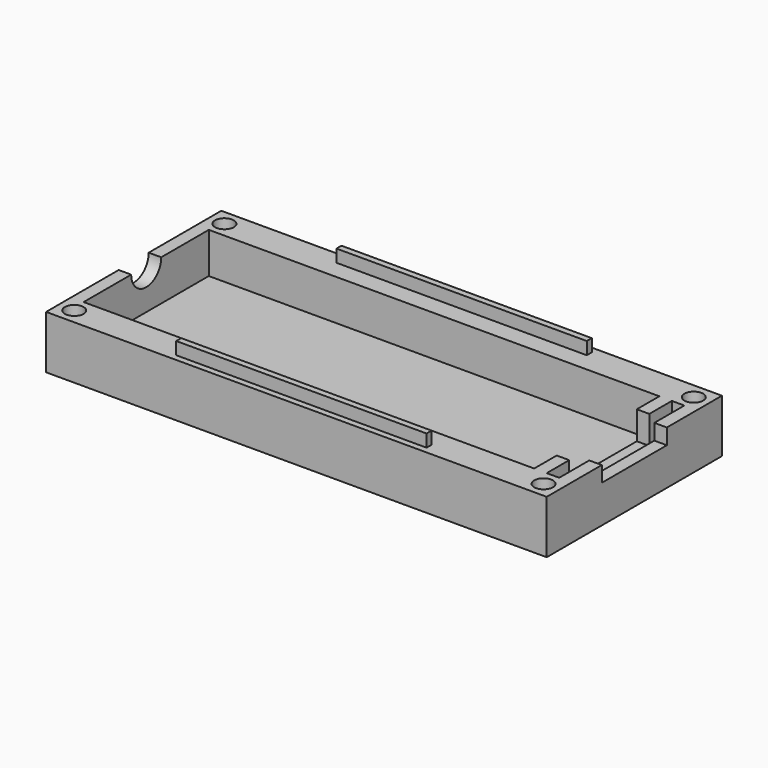
from build123d import *

# Parameters (mm, degrees)
CYLINDER004_R        = 1.5
CYLINDER004_DEPTH    = 10
CYLINDER003_R        = 1.5
CYLINDER003_DEPTH    = 10
CYLINDER002_R        = 1.5
CYLINDER002_DEPTH    = 10
CYLINDER001_R        = 1.5
CYLINDER001_DEPTH    = 10
BOX007_W             = 40
BOX007_H             = 1
BOX007_DEPTH         = 10.5
BOX006_W             = 40
BOX006_H             = 1
BOX006_DEPTH         = 10.5
BOX005_W             = 3
BOX005_H             = 25
BOX005_DEPTH         = 10
BOX004_W             = 2
BOX004_H             = 16
BOX004_DEPTH         = 9
BOX003_W             = 2
BOX003_H             = 13
BOX003_DEPTH         = 5
BOX002_W             = 2
BOX002_H             = 25
BOX002_DEPTH         = 9
BOX001_W             = 69
BOX001_H             = 25
BOX001_DEPTH         = 13
CYLINDER_R           = 3
CYLINDER_DEPTH       = 2
CYLINDER_PITCH_ANGLE = 90
BOX_W                = 80
BOX_H                = 35
BOX_DEPTH            = 8.5


with BuildPart() as cylinder004:
    # Cylinder004 → Cylinder004 (new body)
    with BuildSketch(Plane(origin=(2.5, 32.5, 0), x_dir=(1, 0, 0), z_dir=(0, 0, 1))):
        Circle(CYLINDER004_R)
    extrude(amount=CYLINDER004_DEPTH)


with BuildPart() as cylinder003:
    # Cylinder003 → Cylinder003 (new body)
    with BuildSketch(Plane(origin=(77.5, 32.5, 0), x_dir=(1, 0, 0), z_dir=(0, 0, 1))):
        Circle(CYLINDER003_R)
    extrude(amount=CYLINDER003_DEPTH)


with BuildPart() as cylinder002:
    # Cylinder002 → Cylinder002 (new body)
    with BuildSketch(Plane(origin=(77.5, 2.5, 0), x_dir=(1, 0, 0), z_dir=(0, 0, 1))):
        Circle(CYLINDER002_R)
    extrude(amount=CYLINDER002_DEPTH)


with BuildPart() as cylinder001:
    # Cylinder001 → Cylinder001 (new body)
    with BuildSketch(Plane(origin=(2.5, 2.5, 0), x_dir=(1, 0, 0), z_dir=(0, 0, 1))):
        Circle(CYLINDER001_R)
    extrude(amount=CYLINDER001_DEPTH)


with BuildPart() as box007:
    # Box007 → Box007 (new body)
    with BuildSketch(Plane(origin=(20, 1, 0), x_dir=(1, 0, 0), z_dir=(0, 0, 1))):
        with Locations((20, 0.5)):
            Rectangle(BOX007_W, BOX007_H)
    extrude(amount=BOX007_DEPTH)


with BuildPart() as box006:
    # Box006 → Box006 (new body)
    with BuildSketch(Plane(origin=(20, 33, 0), x_dir=(1, 0, 0), z_dir=(0, 0, 1))):
        with Locations((20, 0.5)):
            Rectangle(BOX006_W, BOX006_H)
    extrude(amount=BOX006_DEPTH)


with BuildPart() as box005:
    # Box005 → Box005 (new body)
    with BuildSketch(Plane(origin=(2, 5, 2), x_dir=(1, 0, 0), z_dir=(0, 0, 1))):
        with Locations((1.5, 12.5)):
            Rectangle(BOX005_W, BOX005_H)
    extrude(amount=BOX005_DEPTH)


with BuildPart() as box004:
    # Box004 → Box004 (new body)
    with BuildSketch(Plane(origin=(74, 9.5, 4), x_dir=(1, 0, 0), z_dir=(0, 0, 1))):
        with Locations((1, 8)):
            Rectangle(BOX004_W, BOX004_H)
    extrude(amount=BOX004_DEPTH)


with BuildPart() as u:
    # Box003 → Box003 (new body)
    with BuildSketch(Plane(origin=(78, 11, 6), x_dir=(1, 0, 0), z_dir=(0, 0, 1))):
        with Locations((1, 6.5)):
            Rectangle(BOX003_W, BOX003_H)
    extrude(amount=BOX003_DEPTH)


with BuildPart() as box002:
    # Box002 → Box002 (new body)
    with BuildSketch(Plane(origin=(76, 5, 4), x_dir=(1, 0, 0), z_dir=(0, 0, 1))):
        with Locations((1, 12.5)):
            Rectangle(BOX002_W, BOX002_H)
    extrude(amount=BOX002_DEPTH)


with BuildPart() as box001:
    # Box001 → Box001 (new body)
    with BuildSketch(Plane(origin=(5, 5, 2), x_dir=(1, 0, 0), z_dir=(0, 0, 1))):
        with Locations((34.5, 12.5)):
            Rectangle(BOX001_W, BOX001_H)
    extrude(amount=BOX001_DEPTH)


with BuildPart() as cylinder:
    # Cylinder → Cylinder (new body)
    with BuildSketch(Plane.XY):
        Circle(CYLINDER_R)
    extrude(amount=CYLINDER_DEPTH)


with BuildPart() as cylinder_1:
    # Cylinder pitch: moved
    add(cylinder.part.rotate(Axis((0, 0, 0), (0, 1, 0)), CYLINDER_PITCH_ANGLE))


with BuildPart() as cylinder_2:
    # Cylinder placement: moved
    add(cylinder_1.part.moved(Location((0, 17.5, 8.5))))


with BuildPart() as cut009:
    # Box → Box (new body)
    with BuildSketch(Plane.XY):
        with Locations((40, 17.5)):
            Rectangle(BOX_W, BOX_H)
    extrude(amount=BOX_DEPTH)

    # Cut: cut Cylinder
    add(cylinder_2.part, mode=Mode.SUBTRACT)

    # Cut001: cut Box001
    add(box001.part, mode=Mode.SUBTRACT)

    # Cut002: cut Box002
    add(box002.part, mode=Mode.SUBTRACT)

    add(u.part, mode=Mode.SUBTRACT)

    # Cut004: cut Box004
    add(box004.part, mode=Mode.SUBTRACT)

    # Cut005: cut Box005
    add(box005.part, mode=Mode.SUBTRACT)

    # Fusion: union Box006
    add(box006.part)

    # Fusion001: union Box007
    add(box007.part)

    # Cut006: cut Cylinder001
    add(cylinder001.part, mode=Mode.SUBTRACT)

    # Cut007: cut Cylinder002
    add(cylinder002.part, mode=Mode.SUBTRACT)

    # Cut008: cut Cylinder003
    add(cylinder003.part, mode=Mode.SUBTRACT)

    # Cut009: cut Cylinder004
    add(cylinder004.part, mode=Mode.SUBTRACT)


solid = cut009.part
